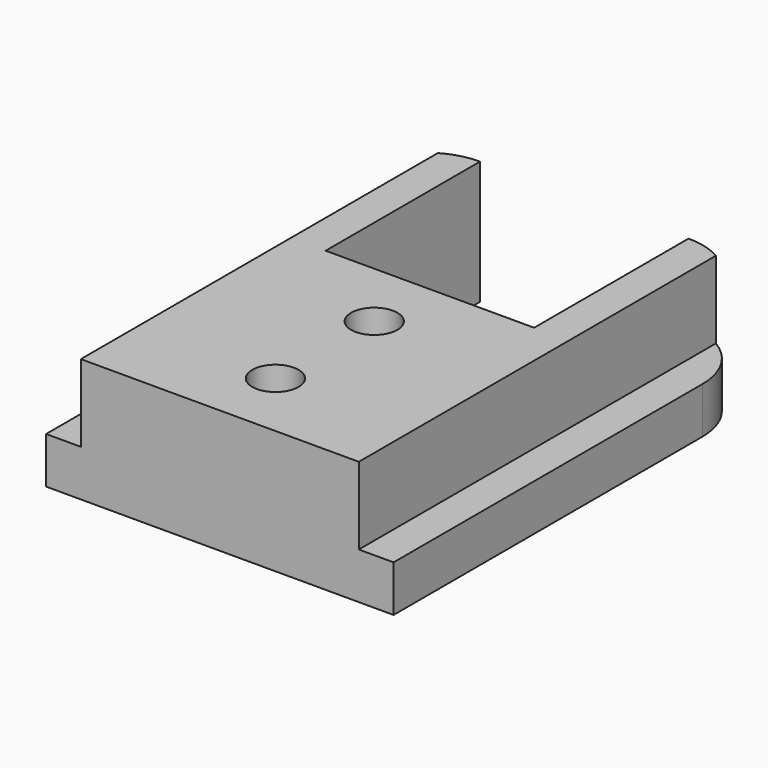
from build123d import *

# Parameters (mm, degrees)
PAD_DEPTH           = 6
PAD001_DEPTH        = 10
HOLE_D              = 6
HOLE_DEPTH          = 25
HOLE_CSINK_D        = 12
HOLE_CSINK_ANGLE    = 90
LINEARPATTERN_COUNT = 2
LINEARPATTERN_PITCH = 16


with BuildPart() as part:
    # Sketch → Pad (new body)
    with BuildSketch(Plane.XY):
        with BuildLine():
            Line((-22.5, 0), (22.5, 0))
            Line((22.5, 0), (22.5, 50))
            ThreePointArc((22.5, 50), (19.863961, 56.363961), (13.5, 59))
            Line((13.5, 59), (13.5, 34))
            Line((13.5, 34), (-13.5, 34))
            Line((-13.5, 34), (-13.5, 59))
            ThreePointArc((-13.5, 59), (-19.863961, 56.363961), (-22.5, 50))
            Line((-22.5, 50), (-22.5, 0))
        make_face()
    extrude(amount=PAD_DEPTH)

    # Sketch001 (on Face10 of Pad) → Pad001 (join)
    with BuildSketch(Plane.XY.offset(6)):
        with BuildLine():
            Line((-18, 0), (18, 0))
            Line((18, 0), (18, 34))
            Line((18, 57.794229), (18, 34))
            ThreePointArc((18, 57.794229), (15.829371, 58.693332), (13.5, 59))
            Line((13.5, 34), (13.5, 59))
            Line((-13.5, 34), (13.5, 34))
            Line((-13.5, 59), (-13.5, 34))
            ThreePointArc((-13.5, 59), (-15.829371, 58.693332), (-18, 57.794229))
            Line((-18, 57.794229), (-18, 34))
            Line((-18, 34), (-18, 0))
        make_face()
    extrude(amount=PAD001_DEPTH)

    # Hole
    with Locations(Plane(origin=(0, 0, 0), x_dir=(1, 0, 0), z_dir=(0, 0, -1))):
        with Locations((0, -9)):
            hole = CounterSinkHole(HOLE_D / 2, HOLE_CSINK_D / 2, depth=HOLE_DEPTH, counter_sink_angle=HOLE_CSINK_ANGLE)

    # LinearPattern: Hole ×2
    with Locations(*[(0, i * LINEARPATTERN_PITCH, 0) for i in range(1, LINEARPATTERN_COUNT)]):
        add(hole, mode=Mode.SUBTRACT)


solid = part.part
